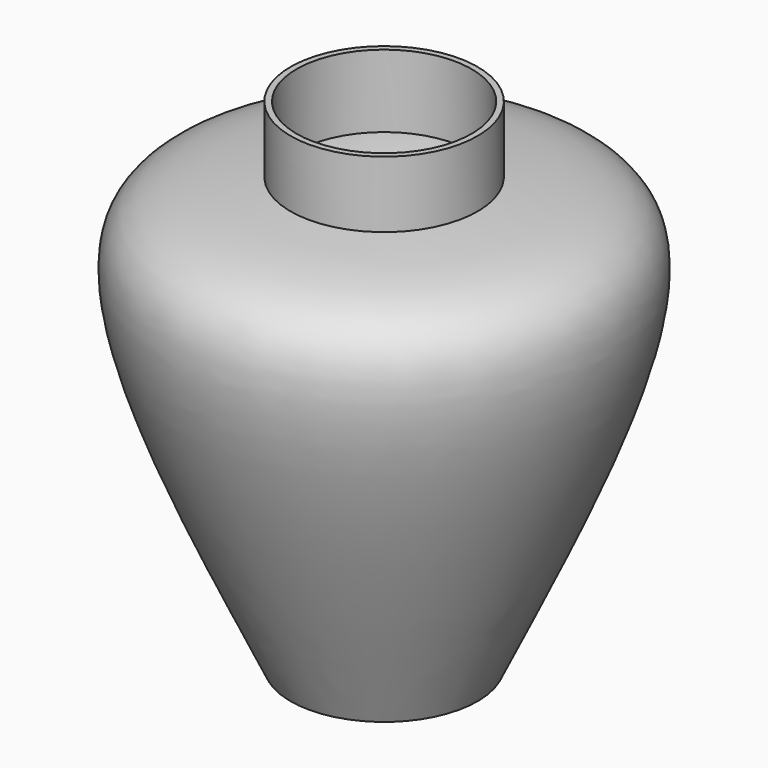
from build123d import *


with BuildPart() as f1:
    # F0 (on Right) → F1 (revolve)
    with BuildSketch(Plane.YZ):
        with BuildLine():
            Line((-44, 143.2044637066), (-47, 143.2044637066))
            Line((-47, 143.2044637066), (-47, 109.8402382309))
            add(Edge.make_bspline(
                [(-47, 109.8402382309), (-72.0602910577, 107.2359927364), (-150.0014117026, 104.1949615692), (-79.1856109773, -38.4851433561), (-47, -106.7955362934)],
                knots=[0, 0, 0, 0, 0.3636065333, 1, 1, 1, 1], degree=3))
            Line((-47, -106.7955362934), (0, -106.7955362934))
            Line((0, -106.7955362934), (0, -103.7955362934))
            Line((0, -103.7955362934), (-44.8843128979, -103.7955362934))
            add(Edge.make_bspline(
                [(-44, 106.7406758666), (-53.0841292499, 106.0286649785), (-70.7793075522, 104.6417230634), (-94.6364553857, 97.7229220581), (-120.2893351597, 85.8976557914), (-77.9927322231, -20.5061006791), (-44.8843128979, -103.7955362934)],
                knots=[0, 0, 0, 0, 0.1850179973, 0.3604006902, 0.4993422479, 1, 1, 1, 1], degree=3))
            Line((-44, 106.7406758666), (-44, 109.9028289318))
            Line((-44, 109.9028289318), (-44, 143.2044637066))
        make_face()
    revolve(axis=Axis((0, 0, 41.66650682), (0, 0, 1)))


solid = f1.part
